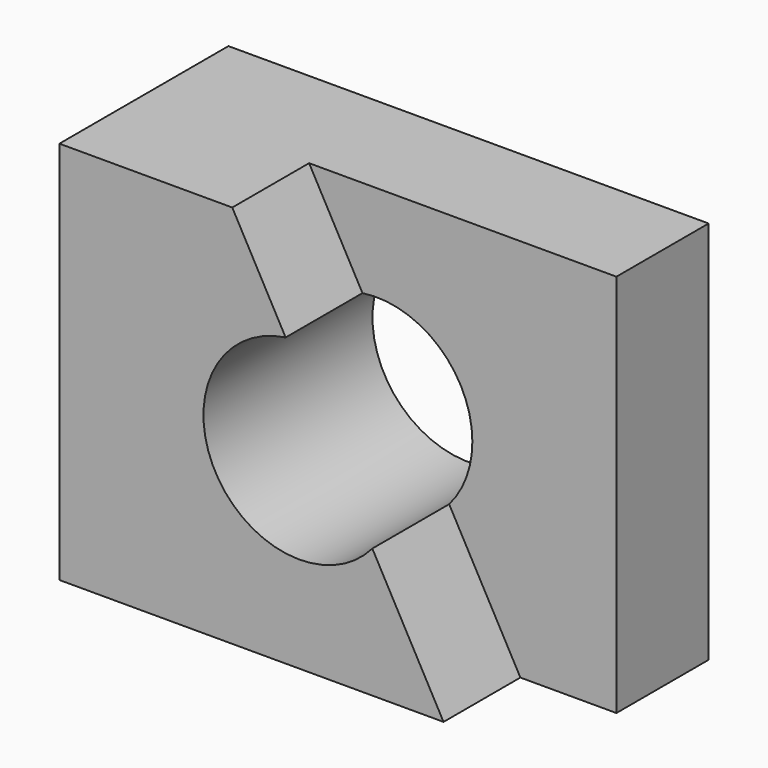
from build123d import *

# Parameters (mm, degrees)
F0_W     = 100
F0_H     = 80
F1_DEPTH = 44
F2_R     = 20
F3_DEPTH = 50
F5_DEPTH = 20


with BuildPart() as f1:
    # F0 (on Front) → F1 (new body)
    with BuildSketch(Plane.XZ):
        Rectangle(F0_W, F0_H)
    extrude(amount=F1_DEPTH)

    # F2 (on face) → F3 (cut)
    with BuildSketch(Plane.XZ.offset(44)):
        Circle(F2_R)
    extrude(amount=-F3_DEPTH, mode=Mode.SUBTRACT)

    # F4 (on face) → F5 (cut)
    with BuildSketch(Plane.XZ.offset(44)):
        with BuildLine():
            Line((50, 40), (-14, 40))
            Line((-14, 40), (-2.8849574507, 19.7908317285))
            ThreePointArc((-2.8849574507, 19.7908317285), (13.0824472287, 15.1277749358), (20, 0))
            ThreePointArc((20, 0), (18.7534067701, -6.9505204492), (15.1690265486, -13.0345937247))
            Line((15.1690265486, -13.0345937247), (30, -40))
            Line((30, -40), (50, -40))
            Line((50, -40), (50, 40))
        make_face()
    extrude(amount=-F5_DEPTH, mode=Mode.SUBTRACT)


solid = f1.part
